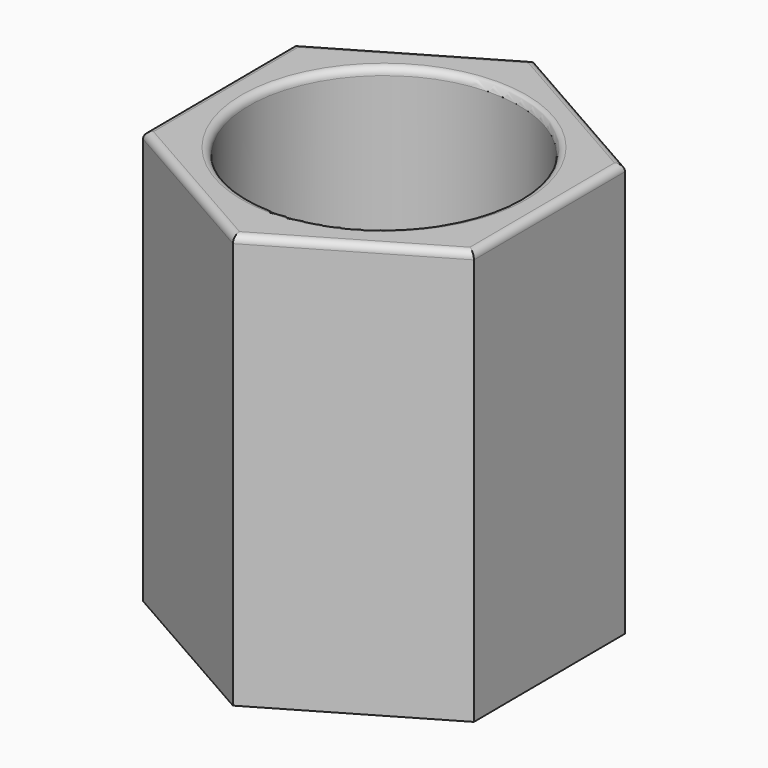
from build123d import *

# Parameters (mm, degrees)
F0_R     = 37.5
F1_DEPTH = 115
F2_R     = 2


with BuildPart() as f1:
    # F0 (on Top) → F1 (new body)
    with BuildSketch(Plane.XY):
        Polygon((45.909108, -26.161031), (45.610671, 26.677938), (-0.298436, 52.838969), (-45.909108, 26.161031), (-45.610671, -26.677938), (0.298436, -52.838969), align=None)
        Circle(F0_R, mode=Mode.SUBTRACT)
    extrude(amount=F1_DEPTH)

    # F2
    f2_edges = [f1.edges().sort_by_distance(p)[0] for p in [
        (23.103772, -39.5, 115),
        (-22.656117, -39.758453, 115),
        (-45.759889, -0.258453, 115),
        (-23.103772, 39.5, 115),
        (22.656117, 39.758453, 115),
        (45.759889, 0.258453, 115),
        (-37.5, 0, 115),
    ]]
    fillet(f2_edges, radius=F2_R)


solid = f1.part
